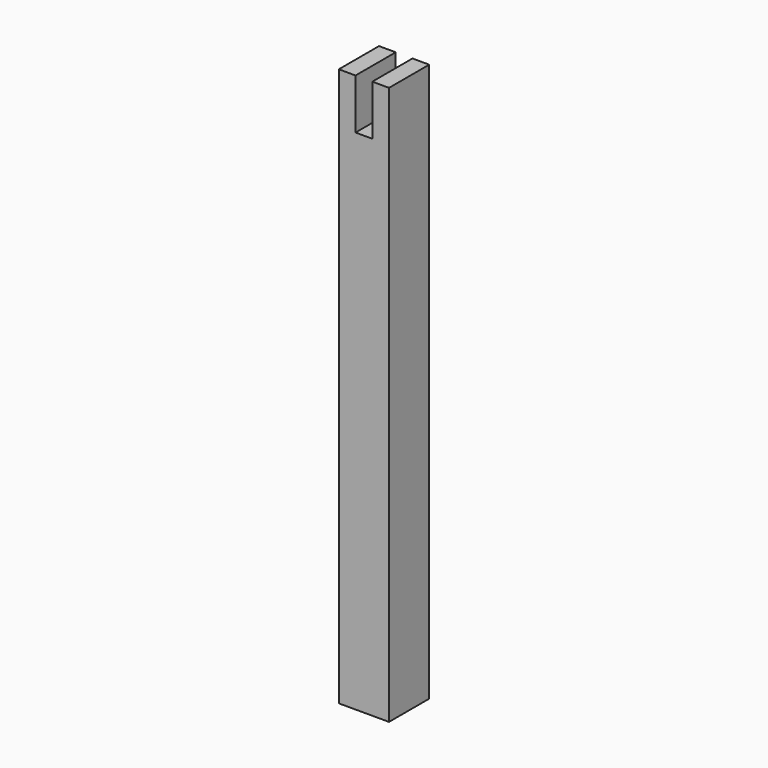
from build123d import *

# Parameters (mm, degrees)
F0_W     = 45
F0_H     = 500
F1_DEPTH = 45
F2_W     = 15
F2_H     = 45
F3_DEPTH = 94
F4_W     = 15
F4_H     = 45
F5_DEPTH = 22.5


with BuildPart() as f1:
    # F0 (on Front) → F1 (new body)
    with BuildSketch(Plane.XZ):
        Rectangle(F0_W, F0_H)
    extrude(amount=F1_DEPTH)

    # F2 (on face) → F3 (cut)
    with BuildSketch(Plane.XZ.offset(45)):
        with Locations((0, 227.5)):
            Rectangle(F2_W, F2_H)
    extrude(amount=-F3_DEPTH, mode=Mode.SUBTRACT)

    # F4 (on Front) → F5 (cut)
    with BuildSketch(Plane.XZ):
        Rectangle(F4_W, F4_H)
    extrude(amount=F5_DEPTH, mode=Mode.SUBTRACT)


solid = f1.part
